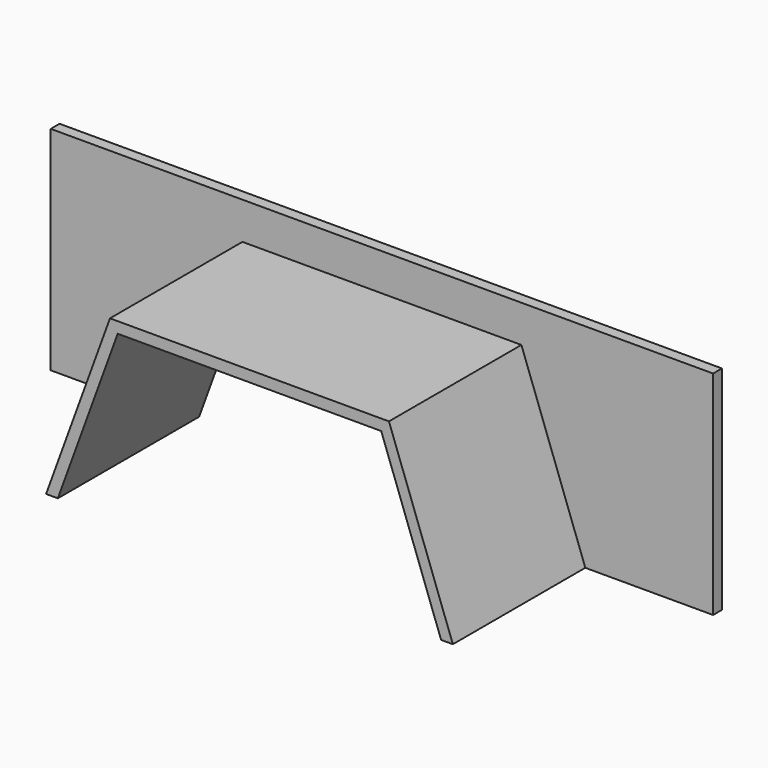
from build123d import *

# Parameters (mm, degrees)
F1_DEPTH = 6.35
F2_DEPTH = 101.6


with BuildPart() as f1:
    # F0 (on Front) → F1 (new body)
    with BuildSketch(Plane.XZ):
        Polygon((116.783164, -46.537578), (190.299465, -46.537578), (190.299465, 75.771391), (-190.749072, 75.771391), (-190.749072, -46.537578), (-117.232771, -46.537578), (-80.471045, 54.392356), (80.021438, 54.392356), align=None)
        Polygon((110.025071, -46.537578), (116.783164, -46.537578), (80.021438, 54.392356), (-80.471045, 54.392356), (-117.232771, -46.537578), (-110.474678, -46.537578), (-76.025814, 48.042357), (75.576207, 48.042357), align=None)
    extrude(amount=F1_DEPTH)

    # F0 (on Front) → F2 (join)
    with BuildSketch(Plane.XZ):
        Polygon((110.025071, -46.537578), (116.783164, -46.537578), (80.021438, 54.392356), (-80.471045, 54.392356), (-117.232771, -46.537578), (-110.474678, -46.537578), (-76.025814, 48.042357), (75.576207, 48.042357), align=None)
    extrude(amount=F2_DEPTH)


solid = f1.part
